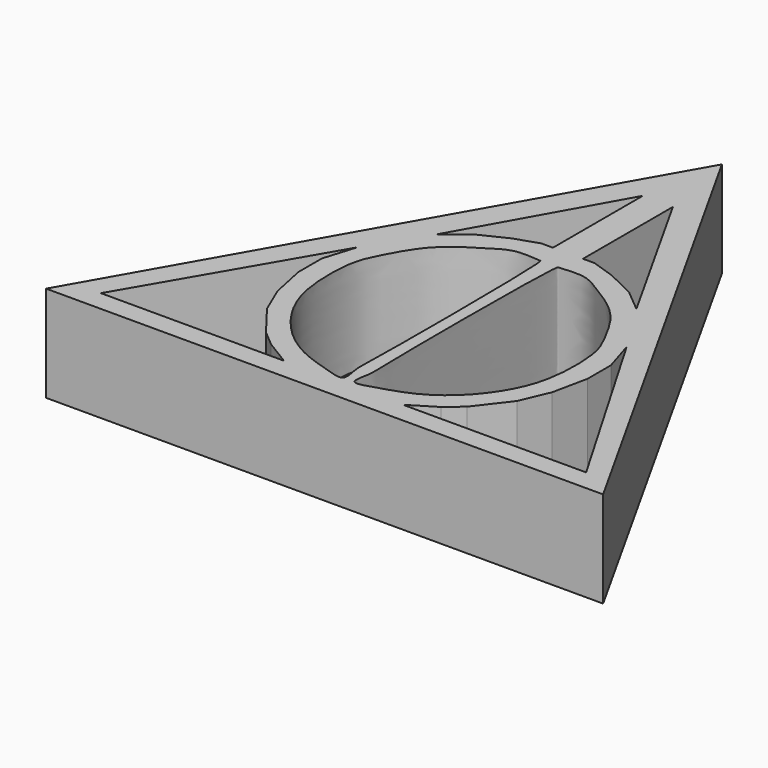
from build123d import *

# Parameters (mm, degrees)
F1_DEPTH = 8
F3_DEPTH = 8


with BuildPart() as f1:
    # F0 (on Top) → F1 (new body)
    with BuildSketch(Plane.XY):
        Polygon((-2.0192302763, 1.9230770413), (-25, 43.0056710775), (-48.3653880656, 1.9230770413), align=None)
    extrude(amount=F1_DEPTH)

    # F2 (on face) → F3 (cut)
    with BuildSketch(Plane.XY.offset(8)):
        Polygon((-26.2500010431, 26.9931722432), (-26.2500010431, 36.3461561501), (-33.3653874695, 23.6538480967), (-31.4939022064, 25.2143535763), (-29.1490945965, 26.3463295996), (-27.208564803, 26.9931722432), (-26.8622171134, 26.9931722432), align=None)
        Polygon((-37.0262600482, 16.4336469024), (-36.2103693187, 19.085297361), (-45.1851859689, 3.6513311788), (-29.9551934004, 3.6513311788), (-32.0629142225, 4.9431608059), (-33.3547443151, 6.0310172848), (-35.394474864, 8.6826682091), (-36.4143401384, 11.0623547807), (-37.0262600482, 13.9859700575), align=None)
        with BuildLine():
            add(Edge.make_bspline(
                [(-25.8107452986, 25.0541286624), (-26.0539297324, 25.0543341682), (-27.7982591194, 25.3033986908), (-29.3348924538, 24.406301793), (-31.6638530996, 22.9410031982), (-33.1261121905, 21.4080934307), (-34.3438499351, 19.1466962701), (-35.1547329743, 17.4999684807), (-35.3400192561, 14.587125511), (-35.0162328157, 11.7736659826), (-33.9805207681, 9.3444554042), (-32.0422763564, 6.8584903497), (-29.5168441453, 5.1570802203), (-27.0220051227, 4.4494599583), (-25.1395513928, 3.8197970201), (-25.6457661586, 5.7894494643), (-25.4473279188, 7.255727746), (-25.4731235472, 25.1627871813), (-25.7460458651, 25.0540739873), (-25.8107452986, 25.0541286624)],
                knots=[0, 0, 0, 0, 0.0487623862, 0.0996362903, 0.1596919447, 0.2139128094, 0.2717032279, 0.3215955474, 0.3834344332, 0.4454692404, 0.5046486638, 0.5693660212, 0.6332819284, 0.6944742876, 0.7370804691, 0.7772197585, 0.8352135176, 0.9870267241, 1, 1, 1, 1], degree=3))
        make_face()
        Polygon((-16.6346125305, 23.6538480967), (-23.7499989569, 36.3461561501), (-23.7499989569, 26.9931722432), (-23.1377828866, 26.9931722432), (-22.791435197, 26.9931722432), (-20.8509054035, 26.3463295996), (-18.5060977936, 25.2143535763), align=None)
        with BuildLine():
            add(Edge.make_bspline(
                [(-24.1892547014, 25.0541286624), (-23.9460702676, 25.0543341682), (-22.2017408806, 25.3033986908), (-20.6651075462, 24.406301793), (-18.3361469004, 22.9410031982), (-16.8738878095, 21.4080934307), (-15.6561500649, 19.1466962701), (-14.8452670257, 17.4999684807), (-14.6599807439, 14.587125511), (-14.9837671843, 11.7736659826), (-16.0194792319, 9.3444554042), (-17.9577236436, 6.8584903497), (-20.4831558547, 5.1570802203), (-22.9779948773, 4.4494599583), (-24.8604486072, 3.8197970201), (-24.3542338414, 5.7894494643), (-24.5526720812, 7.255727746), (-24.5268764528, 25.1627871813), (-24.2539541349, 25.0540739873), (-24.1892547014, 25.0541286624)],
                knots=[0, 0, 0, 0, 0.0487623862, 0.0996362903, 0.1596919447, 0.2139128094, 0.2717032279, 0.3215955474, 0.3834344332, 0.4454692404, 0.5046486638, 0.5693660212, 0.6332819284, 0.6944742876, 0.7370804691, 0.7772197585, 0.8352135176, 0.9870267241, 1, 1, 1, 1], degree=3))
        make_face()
        Polygon((-4.8148140311, 3.6513311788), (-13.7896306813, 19.085297361), (-12.9737399518, 16.4336469024), (-12.9737399518, 13.9859700575), (-13.5856598616, 11.0623547807), (-14.605525136, 8.6826682091), (-16.6452556849, 6.0310172848), (-17.9370857775, 4.9431608059), (-20.0448065996, 3.6513311788), align=None)
    extrude(amount=-F3_DEPTH, mode=Mode.SUBTRACT)


solid = f1.part
